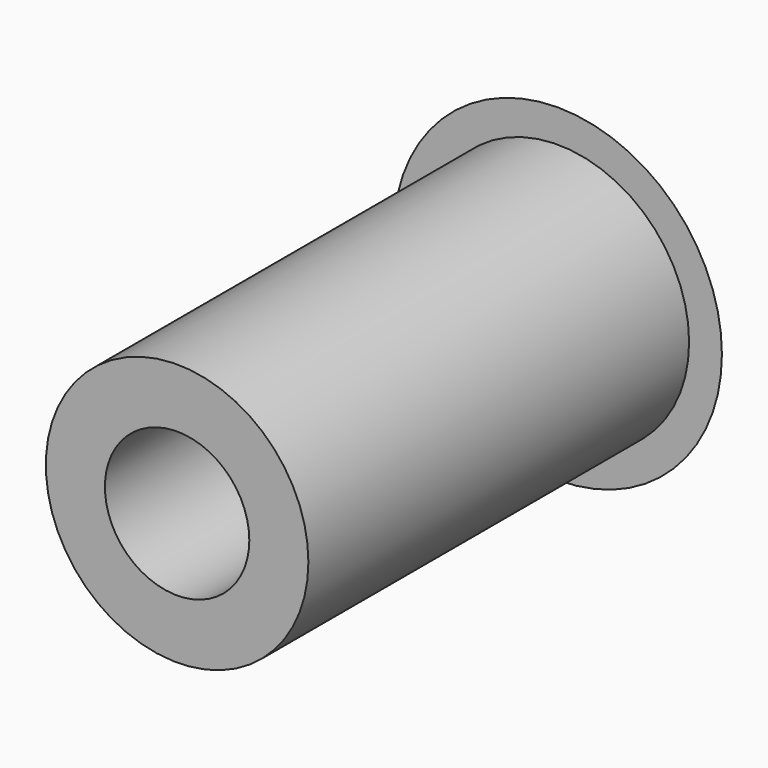
from build123d import *

# Parameters (mm, degrees)
F0_W = 1.8
F0_H = 12


with BuildPart() as f1:
    # F0 (on Top) → F1 (revolve)
    with BuildSketch(Plane.XY):
        with Locations((3.1, 126)):
            Rectangle(F0_W, F0_H)
        Polygon((4, 135), (1.7, 135), (1.7, 132), (2.2, 132), (4, 132), (4, 134.5), align=None)
        with BuildLine():
            Line((0, 131.5), (1.5, 131.5))
            Line((1.5, 131.5), (1.5, 137.697224))
            ThreePointArc((1.5, 137.697224), (0.850654, 138.286686), (0, 138.5))
            Line((0, 138.5), (0, 131.5))
        make_face()
        Polygon((5, 134.5), (4, 135), (4, 134.5), align=None)
        Polygon((2, 130.5), (2, 131.5), (1.5, 131.5), (0, 131.5), (0, 130.5), align=None)
    revolve(axis=Axis((0, 67.461625, 0), (0, -1, 0)))


solid = f1.part
